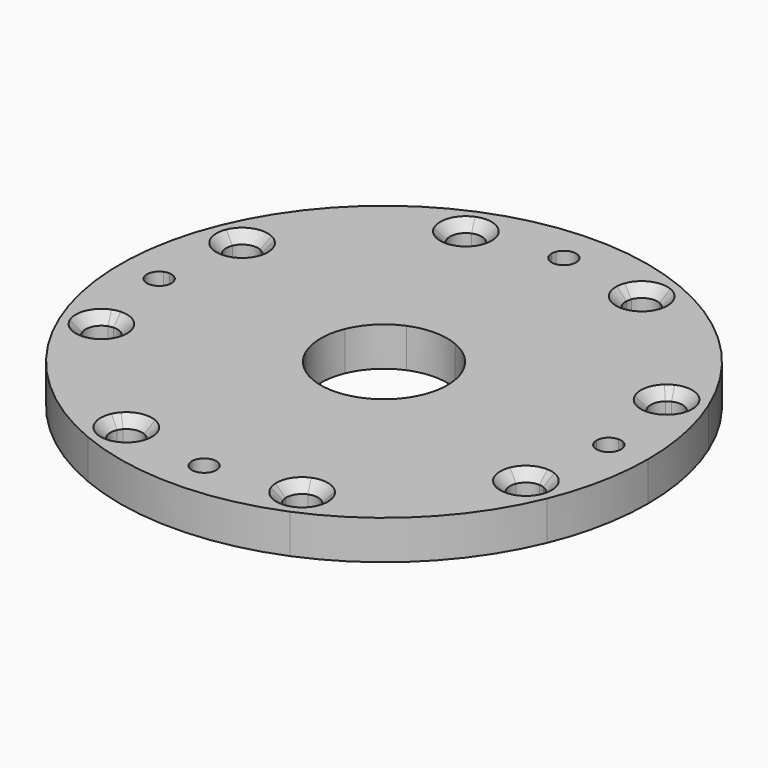
from build123d import *

# Parameters (mm, degrees)
F1_DEPTH = 25.4
F2_SIZE  = 6.35


with BuildPart() as f1:
    # F0 (on Top) → F1 (new body)
    with BuildSketch(Plane.XY):
        with BuildLine():
            Line((153.9875, 0), (171.45, 0))
            ThreePointArc((171.45, 0), (168.1556363251, 33.4482357097), (158.3991458491, 65.611074479))
            Line((158.3991458491, 65.611074479), (147.3992051651, 61.0547498624))
            ThreePointArc((147.3992051651, 61.0547498624), (147.9864013512, 59.119023455), (148.184673239, 57.1059351947))
            ThreePointArc((148.184673239, 57.1059351947), (146.345248898, 51.2256598668), (141.4827688549, 47.441824819))
            ThreePointArc((141.4827688549, 47.441824819), (146.6398235164, 27.6561527348), (149.0438179348, 7.3512557038))
            ThreePointArc((149.0438179348, 7.3512557038), (152.6366279729, 4.4294738058), (153.9875, 0))
        make_face()
        with BuildLine():
            Line((147.3992051651, 61.0547498624), (158.3991458491, 65.611074479))
            ThreePointArc((158.3991458491, 65.611074479), (121.2334576344, 121.2334576344), (65.611074479, 158.3991458491))
            Line((65.611074479, 158.3991458491), (61.0547498624, 147.3992051651))
            ThreePointArc((61.0547498624, 147.3992051651), (65.6856622566, 143.598713581), (67.4246851947, 137.865923239))
            ThreePointArc((67.4246851947, 137.865923239), (67.1900945662, 135.6781546653), (66.496989237, 133.5898613197))
            ThreePointArc((66.496989237, 133.5898613197), (105.5180094226, 105.5180094226), (133.5898613197, 66.496989237))
            ThreePointArc((133.5898613197, 66.496989237), (141.6493189231, 66.706066374), (147.3992051651, 61.0547498624))
        make_face()
        with BuildLine():
            Line((-61.0547498624, 147.3992051651), (-65.611074479, 158.3991458491))
            ThreePointArc((-65.611074479, 158.3991458491), (-121.2334576344, 121.2334576344), (-158.3991458491, 65.611074479))
            Line((-158.3991458491, 65.611074479), (-147.3992051651, 61.0547498624))
            ThreePointArc((-147.3992051651, 61.0547498624), (-141.6493189231, 66.706066374), (-133.5898613197, 66.496989237))
            ThreePointArc((-133.5898613197, 66.496989237), (-105.5180094226, 105.5180094226), (-66.496989237, 133.5898613197))
            ThreePointArc((-66.496989237, 133.5898613197), (-66.706066374, 141.6493189231), (-61.0547498624, 147.3992051651))
        make_face()
        with BuildLine():
            ThreePointArc((65.611074479, -158.3991458491), (121.2334576344, -121.2334576344), (158.3991458491, -65.611074479))
            Line((158.3991458491, -65.611074479), (147.3992051651, -61.0547498624))
            ThreePointArc((147.3992051651, -61.0547498624), (141.6493189231, -66.706066374), (133.5898613197, -66.496989237))
            ThreePointArc((133.5898613197, -66.496989237), (105.5180094226, -105.5180094226), (66.496989237, -133.5898613197))
            ThreePointArc((66.496989237, -133.5898613197), (67.1900945662, -135.6781546653), (67.4246851947, -137.865923239))
            ThreePointArc((67.4246851947, -137.865923239), (65.6856622566, -143.598713581), (61.0547498624, -147.3992051651))
            Line((61.0547498624, -147.3992051651), (65.611074479, -158.3991458491))
        make_face()
        with BuildLine():
            ThreePointArc((158.3991458491, -65.611074479), (168.1556363251, -33.4482357097), (171.45, 0))
            Line((171.45, 0), (153.9875, 0))
            ThreePointArc((153.9875, 0), (152.6366279729, -4.4294738058), (149.0438179348, -7.3512557038))
            ThreePointArc((149.0438179348, -7.3512557038), (146.6398235164, -27.6561527348), (141.4827688549, -47.441824819))
            ThreePointArc((141.4827688549, -47.441824819), (146.345248898, -51.2256598668), (148.184673239, -57.1059351947))
            ThreePointArc((148.184673239, -57.1059351947), (147.9864013512, -59.119023455), (147.3992051651, -61.0547498624))
            Line((147.3992051651, -61.0547498624), (158.3991458491, -65.611074479))
        make_face()
        with BuildLine():
            Line((61.0547498624, 147.3992051651), (65.611074479, 158.3991458491))
            ThreePointArc((65.611074479, 158.3991458491), (0, 171.45), (-65.611074479, 158.3991458491))
            Line((-65.611074479, 158.3991458491), (-61.0547498624, 147.3992051651))
            ThreePointArc((-61.0547498624, 147.3992051651), (-52.9928820817, 147.3295058403), (-47.441824819, 141.4827688549))
            ThreePointArc((-47.441824819, 141.4827688549), (-27.6561527348, 146.6398235164), (-7.3512557038, 149.0438179348))
            ThreePointArc((-7.3512557038, 149.0438179348), (0, 153.9875), (7.3512557038, 149.0438179348))
            ThreePointArc((7.3512557038, 149.0438179348), (27.6561527348, 146.6398235164), (47.441824819, 141.4827688549))
            ThreePointArc((47.441824819, 141.4827688549), (52.9928820817, 147.3295058403), (61.0547498624, 147.3992051651))
        make_face()
        with BuildLine():
            ThreePointArc((-65.611074479, -158.3991458491), (0, -171.45), (65.611074479, -158.3991458491))
            Line((65.611074479, -158.3991458491), (61.0547498624, -147.3992051651))
            ThreePointArc((61.0547498624, -147.3992051651), (52.9928820817, -147.3295058403), (47.441824819, -141.4827688549))
            ThreePointArc((47.441824819, -141.4827688549), (27.6561527348, -146.6398235164), (7.3512557038, -149.0438179348))
            ThreePointArc((7.3512557038, -149.0438179348), (0, -153.9875), (-7.3512557038, -149.0438179348))
            ThreePointArc((-7.3512557038, -149.0438179348), (-27.6561527348, -146.6398235164), (-47.441824819, -141.4827688549))
            ThreePointArc((-47.441824819, -141.4827688549), (-52.9928820817, -147.3295058403), (-61.0547498624, -147.3992051651))
            Line((-61.0547498624, -147.3992051651), (-65.611074479, -158.3991458491))
        make_face()
        with BuildLine():
            Line((-147.3992051651, 61.0547498624), (-158.3991458491, 65.611074479))
            ThreePointArc((-158.3991458491, 65.611074479), (-171.45, 0), (-158.3991458491, -65.611074479))
            Line((-158.3991458491, -65.611074479), (-147.3992051651, -61.0547498624))
            ThreePointArc((-147.3992051651, -61.0547498624), (-147.3295058403, -52.9928820817), (-141.4827688549, -47.441824819))
            ThreePointArc((-141.4827688549, -47.441824819), (-146.6398235164, -27.6561527348), (-149.0438179348, -7.3512557038))
            ThreePointArc((-149.0438179348, -7.3512557038), (-153.9875, 0), (-149.0438179348, 7.3512557038))
            ThreePointArc((-149.0438179348, 7.3512557038), (-146.6398235164, 27.6561527348), (-141.4827688549, 47.441824819))
            ThreePointArc((-141.4827688549, 47.441824819), (-147.3295058403, 52.9928820817), (-147.3992051651, 61.0547498624))
        make_face()
        with BuildLine():
            ThreePointArc((-128.3326413129, 53.157120527), (-132.3356773931, 48.3942773475), (-138.3492034219, 46.7985086571))
            ThreePointArc((-138.3492034219, 46.7985086571), (-143.4143241192, 27.6212624158), (-145.8343070652, 7.9345688483))
            ThreePointArc((-145.8343070652, 7.9345688483), (-140.361592098, 5.5358758828), (-138.1125, 0))
            ThreePointArc((-138.1125, 0), (-140.361592098, -5.5358758828), (-145.8343070652, -7.9345688483))
            ThreePointArc((-145.8343070652, -7.9345688483), (-143.4143241192, -27.6212624158), (-138.3492034219, -46.7985086571))
            ThreePointArc((-138.3492034219, -46.7985086571), (-132.3356773931, -48.3942773475), (-128.3326413129, -53.157120527))
            Line((-128.3326413129, -53.157120527), (-38.0157950038, -15.746657875))
            ThreePointArc((-38.0157950038, -15.746657875), (-41.148, 0), (-38.0157950038, 15.746657875))
            Line((-38.0157950038, 15.746657875), (-128.3326413129, 53.157120527))
        make_face()
        with BuildLine():
            ThreePointArc((-53.157120527, 128.3326413129), (-59.3555331946, 127.7953765606), (-64.7361170905, 130.9192027322))
            ThreePointArc((-64.7361170905, 130.9192027322), (-103.2729453923, 103.2729453923), (-130.9192027322, 64.7361170905))
            ThreePointArc((-130.9192027322, 64.7361170905), (-128.4277540894, 61.2769739941), (-127.547173239, 57.1059351947))
            ThreePointArc((-127.547173239, 57.1059351947), (-127.7454451268, 55.0928469344), (-128.3326413129, 53.157120527))
            Line((-128.3326413129, 53.157120527), (-38.0157950038, 15.746657875))
            ThreePointArc((-38.0157950038, 15.746657875), (-29.0960298323, 29.0960298323), (-15.746657875, 38.0157950038))
            Line((-15.746657875, 38.0157950038), (-53.157120527, 128.3326413129))
        make_face()
        with BuildLine():
            ThreePointArc((53.157120527, 128.3326413129), (48.3942773475, 132.3356773931), (46.7985086571, 138.3492034219))
            ThreePointArc((46.7985086571, 138.3492034219), (27.6212624158, 143.4143241192), (7.9345688483, 145.8343070652))
            ThreePointArc((7.9345688483, 145.8343070652), (0, 138.1125), (-7.9345688483, 145.8343070652))
            ThreePointArc((-7.9345688483, 145.8343070652), (-27.6212624158, 143.4143241192), (-46.7985086571, 138.3492034219))
            ThreePointArc((-46.7985086571, 138.3492034219), (-46.7900164487, 138.1076296497), (-46.7871851947, 137.865923239))
            ThreePointArc((-46.7871851947, 137.865923239), (-48.5262081327, 132.133132897), (-53.157120527, 128.3326413129))
            Line((-53.157120527, 128.3326413129), (-15.746657875, 38.0157950038))
            ThreePointArc((-15.746657875, 38.0157950038), (0, 41.148), (15.746657875, 38.0157950038))
            Line((15.746657875, 38.0157950038), (53.157120527, 128.3326413129))
        make_face()
        with BuildLine():
            ThreePointArc((128.3326413129, 53.157120527), (127.7953765606, 59.3555331946), (130.9192027322, 64.7361170905))
            ThreePointArc((130.9192027322, 64.7361170905), (103.2729453923, 103.2729453923), (64.7361170905, 130.9192027322))
            ThreePointArc((64.7361170905, 130.9192027322), (59.3555331946, 127.7953765606), (53.157120527, 128.3326413129))
            Line((53.157120527, 128.3326413129), (15.746657875, 38.0157950038))
            ThreePointArc((15.746657875, 38.0157950038), (29.0960298323, 29.0960298323), (38.0157950038, 15.746657875))
            Line((38.0157950038, 15.746657875), (128.3326413129, 53.157120527))
        make_face()
        with BuildLine():
            ThreePointArc((138.1125, 0), (140.361592098, 5.5358758828), (145.8343070652, 7.9345688483))
            ThreePointArc((145.8343070652, 7.9345688483), (143.4143241192, 27.6212624158), (138.3492034219, 46.7985086571))
            ThreePointArc((138.3492034219, 46.7985086571), (132.3356773931, 48.3942773475), (128.3326413129, 53.157120527))
            Line((128.3326413129, 53.157120527), (38.0157950038, 15.746657875))
            ThreePointArc((38.0157950038, 15.746657875), (40.357352718, 8.0275765703), (41.148, 0))
            Line((41.148, 0), (138.1125, 0))
        make_face()
        with BuildLine():
            ThreePointArc((138.3492034219, -46.7985086571), (143.4143241192, -27.6212624158), (145.8343070652, -7.9345688483))
            ThreePointArc((145.8343070652, -7.9345688483), (140.361592098, -5.5358758828), (138.1125, 0))
            Line((138.1125, 0), (41.148, 0))
            ThreePointArc((41.148, 0), (40.357352718, -8.0275765703), (38.0157950038, -15.746657875))
            Line((38.0157950038, -15.746657875), (128.3326413129, -53.157120527))
            ThreePointArc((128.3326413129, -53.157120527), (132.3356773931, -48.3942773475), (138.3492034219, -46.7985086571))
        make_face()
        with BuildLine():
            ThreePointArc((64.7361170905, -130.9192027322), (103.2729453923, -103.2729453923), (130.9192027322, -64.7361170905))
            ThreePointArc((130.9192027322, -64.7361170905), (127.7953765606, -59.3555331946), (128.3326413129, -53.157120527))
            Line((128.3326413129, -53.157120527), (38.0157950038, -15.746657875))
            ThreePointArc((38.0157950038, -15.746657875), (29.0960298323, -29.0960298323), (15.746657875, -38.0157950038))
            Line((15.746657875, -38.0157950038), (53.157120527, -128.3326413129))
            ThreePointArc((53.157120527, -128.3326413129), (59.3555331946, -127.7953765606), (64.7361170905, -130.9192027322))
        make_face()
        with BuildLine():
            ThreePointArc((7.9345688483, -145.8343070652), (27.6212624158, -143.4143241192), (46.7985086571, -138.3492034219))
            ThreePointArc((46.7985086571, -138.3492034219), (48.3942773475, -132.3356773931), (53.157120527, -128.3326413129))
            Line((53.157120527, -128.3326413129), (15.746657875, -38.0157950038))
            ThreePointArc((15.746657875, -38.0157950038), (0, -41.148), (-15.746657875, -38.0157950038))
            Line((-15.746657875, -38.0157950038), (-53.157120527, -128.3326413129))
            ThreePointArc((-53.157120527, -128.3326413129), (-48.5262081327, -132.133132897), (-46.7871851947, -137.865923239))
            ThreePointArc((-46.7871851947, -137.865923239), (-46.7900164487, -138.1076296497), (-46.7985086571, -138.3492034219))
            ThreePointArc((-46.7985086571, -138.3492034219), (-27.6212624158, -143.4143241192), (-7.9345688483, -145.8343070652))
            ThreePointArc((-7.9345688483, -145.8343070652), (0, -138.1125), (7.9345688483, -145.8343070652))
        make_face()
        with BuildLine():
            ThreePointArc((-130.9192027322, -64.7361170905), (-103.2729453923, -103.2729453923), (-64.7361170905, -130.9192027322))
            ThreePointArc((-64.7361170905, -130.9192027322), (-59.3555331946, -127.7953765606), (-53.157120527, -128.3326413129))
            Line((-53.157120527, -128.3326413129), (-15.746657875, -38.0157950038))
            ThreePointArc((-15.746657875, -38.0157950038), (-29.0960298323, -29.0960298323), (-38.0157950038, -15.746657875))
            Line((-38.0157950038, -15.746657875), (-128.3326413129, -53.157120527))
            ThreePointArc((-128.3326413129, -53.157120527), (-127.7454451268, -55.0928469344), (-127.547173239, -57.1059351947))
            ThreePointArc((-127.547173239, -57.1059351947), (-128.4277540894, -61.2769739941), (-130.9192027322, -64.7361170905))
        make_face()
        with BuildLine():
            ThreePointArc((-149.0438179348, -7.3512557038), (-146.6398235164, -27.6561527348), (-141.4827688549, -47.441824819))
            ThreePointArc((-141.4827688549, -47.441824819), (-139.9410670442, -46.9979987213), (-138.3492034219, -46.7985086571))
            ThreePointArc((-138.3492034219, -46.7985086571), (-143.4143241192, -27.6212624158), (-145.8343070652, -7.9345688483))
            ThreePointArc((-145.8343070652, -7.9345688483), (-147.4693513254, -7.8095677259), (-149.0438179348, -7.3512557038))
        make_face()
        with BuildLine():
            ThreePointArc((-138.3492034219, 46.7985086571), (-139.9410670442, 46.9979987213), (-141.4827688549, 47.441824819))
            ThreePointArc((-141.4827688549, 47.441824819), (-146.6398235164, 27.6561527348), (-149.0438179348, 7.3512557038))
            ThreePointArc((-149.0438179348, 7.3512557038), (-147.4693513254, 7.8095677259), (-145.8343070652, 7.9345688483))
            ThreePointArc((-145.8343070652, 7.9345688483), (-143.4143241192, 27.6212624158), (-138.3492034219, 46.7985086571))
        make_face()
        with BuildLine():
            ThreePointArc((-158.3991458491, -65.611074479), (-121.2334576344, -121.2334576344), (-65.611074479, -158.3991458491))
            Line((-65.611074479, -158.3991458491), (-61.0547498624, -147.3992051651))
            ThreePointArc((-61.0547498624, -147.3992051651), (-66.706066374, -141.6493189231), (-66.496989237, -133.5898613197))
            ThreePointArc((-66.496989237, -133.5898613197), (-105.5180094226, -105.5180094226), (-133.5898613197, -66.496989237))
            ThreePointArc((-133.5898613197, -66.496989237), (-141.6493189231, -66.706066374), (-147.3992051651, -61.0547498624))
            Line((-147.3992051651, -61.0547498624), (-158.3991458491, -65.611074479))
        make_face()
        with BuildLine():
            ThreePointArc((-133.5898613197, -66.496989237), (-105.5180094226, -105.5180094226), (-66.496989237, -133.5898613197))
            ThreePointArc((-66.496989237, -133.5898613197), (-65.7206738754, -132.1858810715), (-64.7361170905, -130.9192027322))
            ThreePointArc((-64.7361170905, -130.9192027322), (-103.2729453923, -103.2729453923), (-130.9192027322, -64.7361170905))
            ThreePointArc((-130.9192027322, -64.7361170905), (-132.1858810715, -65.7206738754), (-133.5898613197, -66.496989237))
        make_face()
        with BuildLine():
            ThreePointArc((-46.7985086571, -138.3492034219), (-46.9979987213, -139.9410670442), (-47.441824819, -141.4827688549))
            ThreePointArc((-47.441824819, -141.4827688549), (-27.6561527348, -146.6398235164), (-7.3512557038, -149.0438179348))
            ThreePointArc((-7.3512557038, -149.0438179348), (-7.8095677259, -147.4693513254), (-7.9345688483, -145.8343070652))
            ThreePointArc((-7.9345688483, -145.8343070652), (-27.6212624158, -143.4143241192), (-46.7985086571, -138.3492034219))
        make_face()
        with BuildLine():
            ThreePointArc((7.3512557038, -149.0438179348), (27.6561527348, -146.6398235164), (47.441824819, -141.4827688549))
            ThreePointArc((47.441824819, -141.4827688549), (46.9979987213, -139.9410670442), (46.7985086571, -138.3492034219))
            ThreePointArc((46.7985086571, -138.3492034219), (27.6212624158, -143.4143241192), (7.9345688483, -145.8343070652))
            ThreePointArc((7.9345688483, -145.8343070652), (7.9367671782, -145.9421435749), (7.9375, -146.05))
            ThreePointArc((7.9375, -146.05), (7.78956027, -147.5753383396), (7.3512557038, -149.0438179348))
        make_face()
        with BuildLine():
            ThreePointArc((66.496989237, -133.5898613197), (105.5180094226, -105.5180094226), (133.5898613197, -66.496989237))
            ThreePointArc((133.5898613197, -66.496989237), (132.1858810715, -65.7206738754), (130.9192027322, -64.7361170905))
            ThreePointArc((130.9192027322, -64.7361170905), (103.2729453923, -103.2729453923), (64.7361170905, -130.9192027322))
            ThreePointArc((64.7361170905, -130.9192027322), (65.7206738754, -132.1858810715), (66.496989237, -133.5898613197))
        make_face()
        with BuildLine():
            ThreePointArc((141.4827688549, -47.441824819), (146.6398235164, -27.6561527348), (149.0438179348, -7.3512557038))
            ThreePointArc((149.0438179348, -7.3512557038), (147.4693513254, -7.8095677259), (145.8343070652, -7.9345688483))
            ThreePointArc((145.8343070652, -7.9345688483), (143.4143241192, -27.6212624158), (138.3492034219, -46.7985086571))
            ThreePointArc((138.3492034219, -46.7985086571), (139.9410670442, -46.9979987213), (141.4827688549, -47.441824819))
        make_face()
        with BuildLine():
            ThreePointArc((145.8343070652, 7.9345688483), (147.4693513254, 7.8095677259), (149.0438179348, 7.3512557038))
            ThreePointArc((149.0438179348, 7.3512557038), (146.6398235164, 27.6561527348), (141.4827688549, 47.441824819))
            ThreePointArc((141.4827688549, 47.441824819), (139.9410670442, 46.9979987213), (138.3492034219, 46.7985086571))
            ThreePointArc((138.3492034219, 46.7985086571), (143.4143241192, 27.6212624158), (145.8343070652, 7.9345688483))
        make_face()
        with BuildLine():
            ThreePointArc((130.9192027322, 64.7361170905), (132.1858810715, 65.7206738754), (133.5898613197, 66.496989237))
            ThreePointArc((133.5898613197, 66.496989237), (105.5180094226, 105.5180094226), (66.496989237, 133.5898613197))
            ThreePointArc((66.496989237, 133.5898613197), (65.7206738754, 132.1858810715), (64.7361170905, 130.9192027322))
            ThreePointArc((64.7361170905, 130.9192027322), (103.2729453923, 103.2729453923), (130.9192027322, 64.7361170905))
        make_face()
        with BuildLine():
            ThreePointArc((46.7985086571, 138.3492034219), (46.9979987213, 139.9410670442), (47.441824819, 141.4827688549))
            ThreePointArc((47.441824819, 141.4827688549), (27.6561527348, 146.6398235164), (7.3512557038, 149.0438179348))
            ThreePointArc((7.3512557038, 149.0438179348), (7.78956027, 147.5753383396), (7.9375, 146.05))
            ThreePointArc((7.9375, 146.05), (7.9367671782, 145.9421435749), (7.9345688483, 145.8343070652))
            ThreePointArc((7.9345688483, 145.8343070652), (27.6212624158, 143.4143241192), (46.7985086571, 138.3492034219))
        make_face()
        with BuildLine():
            ThreePointArc((-7.3512557038, 149.0438179348), (-27.6561527348, 146.6398235164), (-47.441824819, 141.4827688549))
            ThreePointArc((-47.441824819, 141.4827688549), (-46.9979987213, 139.9410670442), (-46.7985086571, 138.3492034219))
            ThreePointArc((-46.7985086571, 138.3492034219), (-27.6212624158, 143.4143241192), (-7.9345688483, 145.8343070652))
            ThreePointArc((-7.9345688483, 145.8343070652), (-7.8095677259, 147.4693513254), (-7.3512557038, 149.0438179348))
        make_face()
        with BuildLine():
            ThreePointArc((-64.7361170905, 130.9192027322), (-65.7206738754, 132.1858810715), (-66.496989237, 133.5898613197))
            ThreePointArc((-66.496989237, 133.5898613197), (-105.5180094226, 105.5180094226), (-133.5898613197, 66.496989237))
            ThreePointArc((-133.5898613197, 66.496989237), (-132.1858810715, 65.7206738754), (-130.9192027322, 64.7361170905))
            ThreePointArc((-130.9192027322, 64.7361170905), (-103.2729453923, 103.2729453923), (-64.7361170905, 130.9192027322))
        make_face()
    extrude(amount=F1_DEPTH)

    # F2
    f2_edges = [f1.edges().sort_by_distance(p)[0] for p in [
        (-49.475753, 144.812644, 25.4),
        (67.413362, 137.382643, 25.4),
        (144.812644, 49.475753, 25.4),
        (137.382643, -67.413362, 25.4),
        (-67.413362, -137.382643, 25.4),
        (-144.812644, -49.475753, 25.4),
        (-142.141985, 47.714881, 25.4),
        (49.475753, -144.812644, 25.4),
    ]]
    chamfer(f2_edges, length=F2_SIZE)


solid = f1.part
